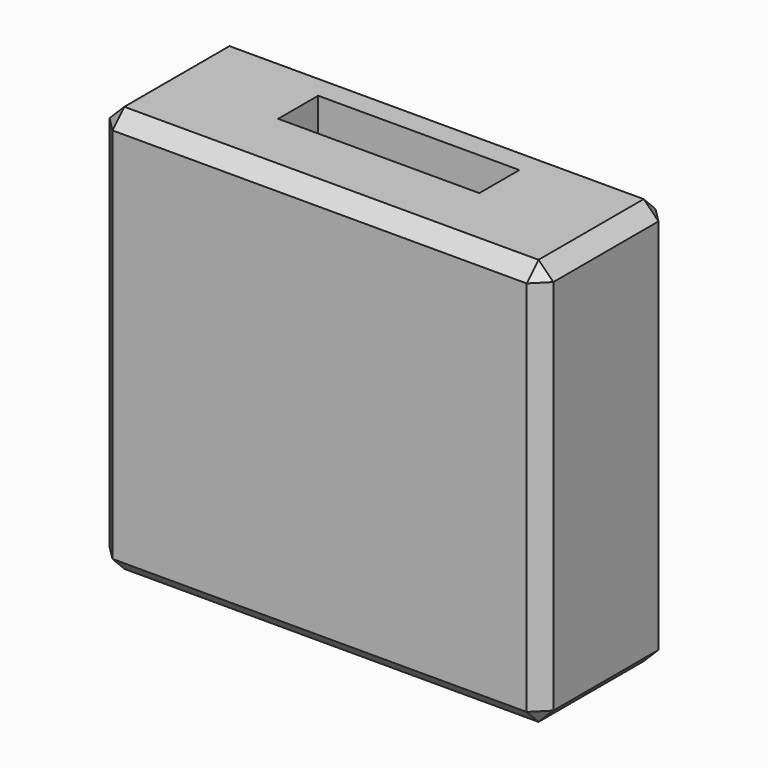
from build123d import *

# Parameters (mm, degrees)
F0_W     = 76.2
F0_H     = 27.6479
F0_W_2   = 34.544
F0_H_2   = 8.5852
F1_DEPTH = 69.85
F2_SIZE  = 2.54


with BuildPart() as f1:
    # F0 (on Top) → F1 (new body)
    with BuildSketch(Plane.XY):
        Rectangle(F0_W, F0_H)
        with Locations((0, 3.16865)):
            Rectangle(F0_W_2, F0_H_2, mode=Mode.SUBTRACT)
    extrude(amount=F1_DEPTH)

    # F2
    f2_edges = [f1.edges().sort_by_distance(p)[0] for p in [
        (38.1, -13.82395, 34.925),
        (-38.1, -13.82395, 34.925),
        (38.1, 13.82395, 34.925),
        (-38.1, 13.82395, 34.925),
        (0, 13.82395, 69.85),
        (0, -13.82395, 69.85),
        (0, -13.82395, 0),
        (0, 13.82395, 0),
        (-38.1, 0, 0),
        (38.1, 0, 0),
        (38.1, 0, 69.85),
        (-38.1, 0, 69.85),
    ]]
    chamfer(f2_edges, length=F2_SIZE)


solid = f1.part
